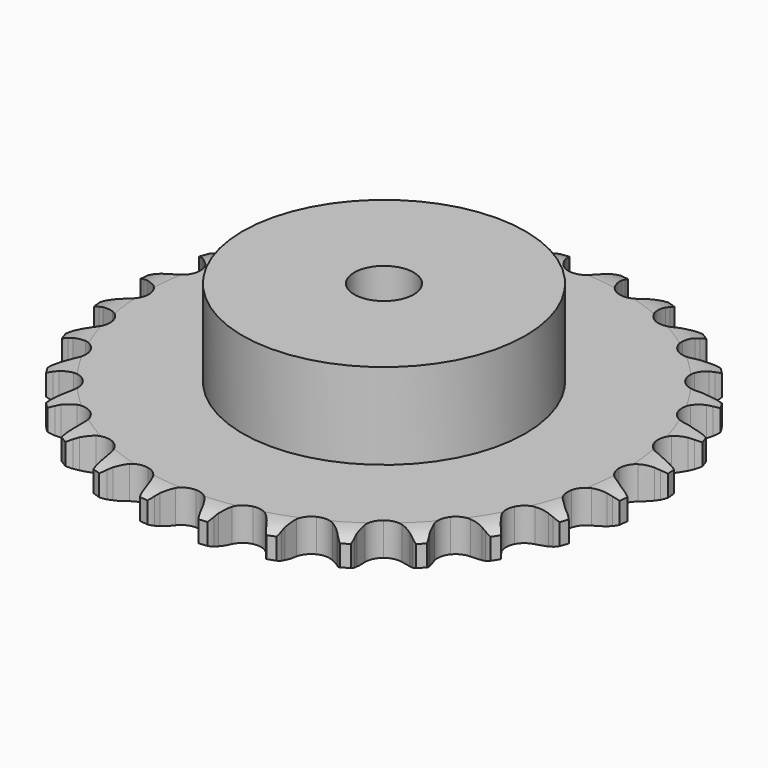
from build123d import *

# Parameters (mm, degrees)
PAD_DEPTH         = 11.1
SKETCH001_R       = 47.5
PAD001_DEPTH      = 40
SKETCH002_R       = 10
POCKET_DEPTH      = 0.001
POCKET_DEPTH_BACK = 40.001


with BuildPart() as part:
    # Sprocket → Pad (new body)
    with BuildSketch(Plane.XY):
        with BuildLine():
            ThreePointArc((-10.199193, 90.520346), (-8.671084, 88.783435), (-7.589433, 86.738439))
            Line((-7.589433, 86.738439), (-7.001312, 85.217676))
            ThreePointArc((-7.001312, 85.217676), (-6.067169, 83.22737), (-4.865119, 81.386441))
            ThreePointArc((-4.865119, 81.386441), (-2.716457, 79.606204), (0, 78.968351))
            ThreePointArc((0, 78.968351), (2.716457, 79.606204), (4.865119, 81.386441))
            ThreePointArc((4.865119, 81.386441), (6.067169, 83.22737), (7.001312, 85.217676))
            Line((7.001312, 85.217676), (7.589433, 86.738439))
            ThreePointArc((7.589433, 86.738439), (8.671084, 88.783435), (10.199193, 90.520346))
            ThreePointArc((10.199193, 90.520346), (11.302491, 88.486946), (11.901969, 86.252533))
            Line((11.901969, 86.252533), (12.136942, 84.63903))
            ThreePointArc((12.136942, 84.63903), (12.60478, 82.490758), (13.367047, 80.428504))
            ThreePointArc((13.367047, 80.428504), (15.065698, 78.214779), (17.572111, 76.988449))
            ThreePointArc((17.572111, 76.988449), (20.362396, 77.005842), (22.853327, 78.263323))
            Line((22.853327, 78.263323), (25.788492, 81.523153))
            ThreePointArc((25.788492, 81.523153), (26.226886, 82.210835), (26.700268, 82.874917))
            ThreePointArc((26.700268, 82.874917), (28.209855, 84.627951), (30.08615, 85.981278))
            ThreePointArc((30.08615, 85.981278), (30.709312, 83.753353), (30.796556, 81.441564))
            Line((30.796556, 81.441564), (30.6666, 79.816229))
            ThreePointArc((30.6666, 79.816229), (30.644673, 77.617715), (30.928933, 75.437546))
            ThreePointArc((30.928933, 75.437546), (32.092395, 72.901338), (34.263083, 71.148026))
            ThreePointArc((34.263083, 71.148026), (36.98728, 70.544086), (39.695574, 71.215754))
            Line((39.695574, 71.215754), (43.282528, 73.740718))
            ThreePointArc((43.282528, 73.740718), (43.862955, 74.313607), (44.472241, 74.855701))
            ThreePointArc((44.472241, 74.855701), (46.334065, 76.228868), (48.464462, 77.130749))
            ThreePointArc((48.464462, 77.130749), (48.57624, 74.820017), (48.146875, 72.546776))
            Line((48.146875, 72.546776), (47.658506, 70.991109))
            ThreePointArc((47.658506, 70.991109), (47.147913, 68.852596), (46.939913, 66.663834))
            ThreePointArc((46.939913, 66.663834), (47.509845, 63.93232), (49.235961, 61.739943))
            ThreePointArc((49.235961, 61.739943), (51.757468, 60.544954), (54.547319, 60.59713))
            Line((54.547319, 60.59713), (58.606198, 62.260616))
            ThreePointArc((58.606198, 62.260616), (59.299552, 62.689984), (60.014189, 63.082908))
            ThreePointArc((60.014189, 63.082908), (62.134893, 64.007352), (64.412563, 64.412563))
            ThreePointArc((64.412563, 64.412563), (64.007352, 62.134893), (63.082908, 60.014189))
            Line((63.082908, 60.014189), (62.260616, 58.606198))
            ThreePointArc((62.260616, 58.606198), (61.286961, 56.63492), (60.59713, 54.547319))
            ThreePointArc((60.59713, 54.547319), (60.544954, 51.757468), (61.739943, 49.235961))
            ThreePointArc((61.739943, 49.235961), (63.93232, 47.509845), (66.663834, 46.939913))
            Line((66.663834, 46.939913), (70.991109, 47.658506))
            ThreePointArc((70.991109, 47.658506), (71.762622, 47.922823), (72.546776, 48.146875))
            ThreePointArc((72.546776, 48.146875), (74.820017, 48.57624), (77.130749, 48.464462))
            ThreePointArc((77.130749, 48.464462), (76.228868, 46.334065), (74.855701, 44.472241))
            Line((74.855701, 44.472241), (73.740718, 43.282528))
            ThreePointArc((73.740718, 43.282528), (72.352824, 41.577333), (71.215754, 39.695574))
            ThreePointArc((71.215754, 39.695574), (70.544086, 36.98728), (71.148026, 34.263083))
            ThreePointArc((71.148026, 34.263083), (72.901338, 32.092395), (75.437546, 30.928933))
            Line((75.437546, 30.928933), (79.816229, 30.6666))
            ThreePointArc((79.816229, 30.6666), (80.627215, 30.752612), (81.441564, 30.796556))
            ThreePointArc((81.441564, 30.796556), (83.753353, 30.709312), (85.981278, 30.08615))
            ThreePointArc((85.981278, 30.08615), (84.627951, 28.209855), (82.874917, 26.700268))
            Line((82.874917, 26.700268), (81.523153, 25.788492))
            ThreePointArc((81.523153, 25.788492), (79.790614, 24.434884), (78.263323, 22.853327))
            ThreePointArc((78.263323, 22.853327), (77.005842, 20.362396), (76.988449, 17.572111))
            ThreePointArc((76.988449, 17.572111), (78.214779, 15.065698), (80.428504, 13.367047))
            Line((80.428504, 13.367047), (84.63903, 12.136942))
            ThreePointArc((84.63903, 12.136942), (85.448822, 12.040337), (86.252533, 11.901969))
            ThreePointArc((86.252533, 11.901969), (88.486946, 11.302491), (90.520346, 10.199193))
            ThreePointArc((90.520346, 10.199193), (88.783435, 8.671084), (86.738439, 7.589433))
            Line((86.738439, 7.589433), (85.217676, 7.001312))
            ThreePointArc((85.217676, 7.001312), (83.22737, 6.067169), (81.386441, 4.865119))
            ThreePointArc((81.386441, 4.865119), (79.606204, 2.716457), (78.968351, 0))
            ThreePointArc((78.968351, 0), (79.606204, -2.716457), (81.386441, -4.865119))
            Line((81.386441, -4.865119), (85.217676, -7.001312))
            ThreePointArc((85.217676, -7.001312), (85.985669, -7.275691), (86.738439, -7.589433))
            ThreePointArc((86.738439, -7.589433), (88.783435, -8.671084), (90.520346, -10.199193))
            ThreePointArc((90.520346, -10.199193), (88.486946, -11.302491), (86.252533, -11.901969))
            Line((86.252533, -11.901969), (84.63903, -12.136942))
            ThreePointArc((84.63903, -12.136942), (82.490758, -12.60478), (80.428504, -13.367047))
            ThreePointArc((80.428504, -13.367047), (78.214779, -15.065698), (76.988449, -17.572111))
            ThreePointArc((76.988449, -17.572111), (77.005842, -20.362396), (78.263323, -22.853327))
            Line((78.263323, -22.853327), (81.523153, -25.788492))
            ThreePointArc((81.523153, -25.788492), (82.210835, -26.226886), (82.874917, -26.700268))
            ThreePointArc((82.874917, -26.700268), (84.627951, -28.209855), (85.981278, -30.08615))
            ThreePointArc((85.981278, -30.08615), (83.753353, -30.709312), (81.441564, -30.796556))
            Line((81.441564, -30.796556), (79.816229, -30.6666))
            ThreePointArc((79.816229, -30.6666), (77.617715, -30.644673), (75.437546, -30.928933))
            ThreePointArc((75.437546, -30.928933), (72.901338, -32.092395), (71.148026, -34.263083))
            ThreePointArc((71.148026, -34.263083), (70.544086, -36.98728), (71.215754, -39.695574))
            Line((71.215754, -39.695574), (73.740718, -43.282528))
            ThreePointArc((73.740718, -43.282528), (74.313607, -43.862955), (74.855701, -44.472241))
            ThreePointArc((74.855701, -44.472241), (76.228868, -46.334065), (77.130749, -48.464462))
            ThreePointArc((77.130749, -48.464462), (74.820017, -48.57624), (72.546776, -48.146875))
            Line((72.546776, -48.146875), (70.991109, -47.658506))
            ThreePointArc((70.991109, -47.658506), (68.852596, -47.147913), (66.663834, -46.939913))
            ThreePointArc((66.663834, -46.939913), (63.93232, -47.509845), (61.739943, -49.235961))
            ThreePointArc((61.739943, -49.235961), (60.544954, -51.757468), (60.59713, -54.547319))
            Line((60.59713, -54.547319), (62.260616, -58.606198))
            ThreePointArc((62.260616, -58.606198), (62.689984, -59.299552), (63.082908, -60.014189))
            ThreePointArc((63.082908, -60.014189), (64.007352, -62.134893), (64.412563, -64.412563))
            ThreePointArc((64.412563, -64.412563), (62.134893, -64.007352), (60.014189, -63.082908))
            Line((60.014189, -63.082908), (58.606198, -62.260616))
            ThreePointArc((58.606198, -62.260616), (56.63492, -61.286961), (54.547319, -60.59713))
            ThreePointArc((54.547319, -60.59713), (51.757468, -60.544954), (49.235961, -61.739943))
            ThreePointArc((49.235961, -61.739943), (47.509845, -63.93232), (46.939913, -66.663834))
            Line((46.939913, -66.663834), (47.658506, -70.991109))
            ThreePointArc((47.658506, -70.991109), (47.922823, -71.762622), (48.146875, -72.546776))
            ThreePointArc((48.146875, -72.546776), (48.57624, -74.820017), (48.464462, -77.130749))
            ThreePointArc((48.464462, -77.130749), (46.334065, -76.228868), (44.472241, -74.855701))
            Line((44.472241, -74.855701), (43.282528, -73.740718))
            ThreePointArc((43.282528, -73.740718), (41.577333, -72.352824), (39.695574, -71.215754))
            ThreePointArc((39.695574, -71.215754), (36.98728, -70.544086), (34.263083, -71.148026))
            ThreePointArc((34.263083, -71.148026), (32.092395, -72.901338), (30.928933, -75.437546))
            Line((30.928933, -75.437546), (30.6666, -79.816229))
            ThreePointArc((30.6666, -79.816229), (30.752612, -80.627215), (30.796556, -81.441564))
            ThreePointArc((30.796556, -81.441564), (30.709312, -83.753353), (30.08615, -85.981278))
            ThreePointArc((30.08615, -85.981278), (28.209855, -84.627951), (26.700268, -82.874917))
            Line((26.700268, -82.874917), (25.788492, -81.523153))
            ThreePointArc((25.788492, -81.523153), (24.434884, -79.790614), (22.853327, -78.263323))
            ThreePointArc((22.853327, -78.263323), (20.362396, -77.005842), (17.572111, -76.988449))
            ThreePointArc((17.572111, -76.988449), (15.065698, -78.214779), (13.367047, -80.428504))
            Line((13.367047, -80.428504), (12.136942, -84.63903))
            ThreePointArc((12.136942, -84.63903), (12.040337, -85.448822), (11.901969, -86.252533))
            ThreePointArc((11.901969, -86.252533), (11.302491, -88.486946), (10.199193, -90.520346))
            ThreePointArc((10.199193, -90.520346), (8.671084, -88.783435), (7.589433, -86.738439))
            Line((7.589433, -86.738439), (7.001312, -85.217676))
            ThreePointArc((7.001312, -85.217676), (6.067169, -83.22737), (4.865119, -81.386441))
            ThreePointArc((4.865119, -81.386441), (2.716457, -79.606204), (0, -78.968351))
            ThreePointArc((0, -78.968351), (-2.716457, -79.606204), (-4.865119, -81.386441))
            Line((-4.865119, -81.386441), (-7.001312, -85.217676))
            ThreePointArc((-7.001312, -85.217676), (-7.275691, -85.985669), (-7.589433, -86.738439))
            ThreePointArc((-7.589433, -86.738439), (-8.671084, -88.783435), (-10.199193, -90.520346))
            ThreePointArc((-10.199193, -90.520346), (-11.302491, -88.486946), (-11.901969, -86.252533))
            Line((-11.901969, -86.252533), (-12.136942, -84.63903))
            ThreePointArc((-12.136942, -84.63903), (-12.60478, -82.490758), (-13.367047, -80.428504))
            ThreePointArc((-13.367047, -80.428504), (-15.065698, -78.214779), (-17.572111, -76.988449))
            ThreePointArc((-17.572111, -76.988449), (-20.362396, -77.005842), (-22.853327, -78.263323))
            Line((-22.853327, -78.263323), (-25.788492, -81.523153))
            ThreePointArc((-25.788492, -81.523153), (-26.226886, -82.210835), (-26.700268, -82.874917))
            ThreePointArc((-26.700268, -82.874917), (-28.209855, -84.627951), (-30.08615, -85.981278))
            ThreePointArc((-30.08615, -85.981278), (-30.709312, -83.753353), (-30.796556, -81.441564))
            Line((-30.796556, -81.441564), (-30.6666, -79.816229))
            ThreePointArc((-30.6666, -79.816229), (-30.644673, -77.617715), (-30.928933, -75.437546))
            ThreePointArc((-30.928933, -75.437546), (-32.092395, -72.901338), (-34.263083, -71.148026))
            ThreePointArc((-34.263083, -71.148026), (-36.98728, -70.544086), (-39.695574, -71.215754))
            Line((-39.695574, -71.215754), (-43.282528, -73.740718))
            ThreePointArc((-43.282528, -73.740718), (-43.862955, -74.313607), (-44.472241, -74.855701))
            ThreePointArc((-44.472241, -74.855701), (-46.334065, -76.228868), (-48.464462, -77.130749))
            ThreePointArc((-48.464462, -77.130749), (-48.57624, -74.820017), (-48.146875, -72.546776))
            Line((-48.146875, -72.546776), (-47.658506, -70.991109))
            ThreePointArc((-47.658506, -70.991109), (-47.147913, -68.852596), (-46.939913, -66.663834))
            ThreePointArc((-46.939913, -66.663834), (-47.509845, -63.93232), (-49.235961, -61.739943))
            ThreePointArc((-49.235961, -61.739943), (-51.757468, -60.544954), (-54.547319, -60.59713))
            Line((-54.547319, -60.59713), (-58.606198, -62.260616))
            ThreePointArc((-58.606198, -62.260616), (-59.299552, -62.689984), (-60.014189, -63.082908))
            ThreePointArc((-60.014189, -63.082908), (-62.134893, -64.007352), (-64.412563, -64.412563))
            ThreePointArc((-64.412563, -64.412563), (-64.007352, -62.134893), (-63.082908, -60.014189))
            Line((-63.082908, -60.014189), (-62.260616, -58.606198))
            ThreePointArc((-62.260616, -58.606198), (-61.286961, -56.63492), (-60.59713, -54.547319))
            ThreePointArc((-60.59713, -54.547319), (-60.544954, -51.757468), (-61.739943, -49.235961))
            ThreePointArc((-61.739943, -49.235961), (-63.93232, -47.509845), (-66.663834, -46.939913))
            Line((-66.663834, -46.939913), (-70.991109, -47.658506))
            ThreePointArc((-70.991109, -47.658506), (-71.762622, -47.922823), (-72.546776, -48.146875))
            ThreePointArc((-72.546776, -48.146875), (-74.820017, -48.57624), (-77.130749, -48.464462))
            ThreePointArc((-77.130749, -48.464462), (-76.228868, -46.334065), (-74.855701, -44.472241))
            Line((-74.855701, -44.472241), (-73.740718, -43.282528))
            ThreePointArc((-73.740718, -43.282528), (-72.352824, -41.577333), (-71.215754, -39.695574))
            ThreePointArc((-71.215754, -39.695574), (-70.544086, -36.98728), (-71.148026, -34.263083))
            ThreePointArc((-71.148026, -34.263083), (-72.901338, -32.092395), (-75.437546, -30.928933))
            Line((-75.437546, -30.928933), (-79.816229, -30.6666))
            ThreePointArc((-79.816229, -30.6666), (-80.627215, -30.752612), (-81.441564, -30.796556))
            ThreePointArc((-81.441564, -30.796556), (-83.753353, -30.709312), (-85.981278, -30.08615))
            ThreePointArc((-85.981278, -30.08615), (-84.627951, -28.209855), (-82.874917, -26.700268))
            Line((-82.874917, -26.700268), (-81.523153, -25.788492))
            ThreePointArc((-81.523153, -25.788492), (-79.790614, -24.434884), (-78.263323, -22.853327))
            ThreePointArc((-78.263323, -22.853327), (-77.005842, -20.362396), (-76.988449, -17.572111))
            ThreePointArc((-76.988449, -17.572111), (-78.214779, -15.065698), (-80.428504, -13.367047))
            Line((-80.428504, -13.367047), (-84.63903, -12.136942))
            ThreePointArc((-84.63903, -12.136942), (-85.448822, -12.040337), (-86.252533, -11.901969))
            ThreePointArc((-86.252533, -11.901969), (-88.486946, -11.302491), (-90.520346, -10.199193))
            ThreePointArc((-90.520346, -10.199193), (-88.783435, -8.671084), (-86.738439, -7.589433))
            Line((-86.738439, -7.589433), (-85.217676, -7.001312))
            ThreePointArc((-85.217676, -7.001312), (-83.22737, -6.067169), (-81.386441, -4.865119))
            ThreePointArc((-81.386441, -4.865119), (-79.606204, -2.716457), (-78.968351, 0))
            ThreePointArc((-78.968351, 0), (-79.606204, 2.716457), (-81.386441, 4.865119))
            Line((-81.386441, 4.865119), (-85.217676, 7.001312))
            ThreePointArc((-85.217676, 7.001312), (-85.985669, 7.275691), (-86.738439, 7.589433))
            ThreePointArc((-86.738439, 7.589433), (-88.783435, 8.671084), (-90.520346, 10.199193))
            ThreePointArc((-90.520346, 10.199193), (-88.486946, 11.302491), (-86.252533, 11.901969))
            Line((-86.252533, 11.901969), (-84.63903, 12.136942))
            ThreePointArc((-84.63903, 12.136942), (-82.490758, 12.60478), (-80.428504, 13.367047))
            ThreePointArc((-80.428504, 13.367047), (-78.214779, 15.065698), (-76.988449, 17.572111))
            ThreePointArc((-76.988449, 17.572111), (-77.005842, 20.362396), (-78.263323, 22.853327))
            Line((-78.263323, 22.853327), (-81.523153, 25.788492))
            ThreePointArc((-81.523153, 25.788492), (-82.210835, 26.226886), (-82.874917, 26.700268))
            ThreePointArc((-82.874917, 26.700268), (-84.627951, 28.209855), (-85.981278, 30.08615))
            ThreePointArc((-85.981278, 30.08615), (-83.753353, 30.709312), (-81.441564, 30.796556))
            Line((-81.441564, 30.796556), (-79.816229, 30.6666))
            ThreePointArc((-79.816229, 30.6666), (-77.617715, 30.644673), (-75.437546, 30.928933))
            ThreePointArc((-75.437546, 30.928933), (-72.901338, 32.092395), (-71.148026, 34.263083))
            ThreePointArc((-71.148026, 34.263083), (-70.544086, 36.98728), (-71.215754, 39.695574))
            Line((-71.215754, 39.695574), (-73.740718, 43.282528))
            ThreePointArc((-73.740718, 43.282528), (-74.313607, 43.862955), (-74.855701, 44.472241))
            ThreePointArc((-74.855701, 44.472241), (-76.228868, 46.334065), (-77.130749, 48.464462))
            ThreePointArc((-77.130749, 48.464462), (-74.820017, 48.57624), (-72.546776, 48.146875))
            Line((-72.546776, 48.146875), (-70.991109, 47.658506))
            ThreePointArc((-70.991109, 47.658506), (-68.852596, 47.147913), (-66.663834, 46.939913))
            ThreePointArc((-66.663834, 46.939913), (-63.93232, 47.509845), (-61.739943, 49.235961))
            ThreePointArc((-61.739943, 49.235961), (-60.544954, 51.757468), (-60.59713, 54.547319))
            Line((-60.59713, 54.547319), (-62.260616, 58.606198))
            ThreePointArc((-62.260616, 58.606198), (-62.689984, 59.299552), (-63.082908, 60.014189))
            ThreePointArc((-63.082908, 60.014189), (-64.007352, 62.134893), (-64.412563, 64.412563))
            ThreePointArc((-64.412563, 64.412563), (-62.134893, 64.007352), (-60.014189, 63.082908))
            Line((-60.014189, 63.082908), (-58.606198, 62.260616))
            ThreePointArc((-58.606198, 62.260616), (-56.63492, 61.286961), (-54.547319, 60.59713))
            ThreePointArc((-54.547319, 60.59713), (-51.757468, 60.544954), (-49.235961, 61.739943))
            ThreePointArc((-49.235961, 61.739943), (-47.509845, 63.93232), (-46.939913, 66.663834))
            Line((-46.939913, 66.663834), (-47.658506, 70.991109))
            ThreePointArc((-47.658506, 70.991109), (-47.922823, 71.762622), (-48.146875, 72.546776))
            ThreePointArc((-48.146875, 72.546776), (-48.57624, 74.820017), (-48.464462, 77.130749))
            ThreePointArc((-48.464462, 77.130749), (-46.334065, 76.228868), (-44.472241, 74.855701))
            Line((-44.472241, 74.855701), (-43.282528, 73.740718))
            ThreePointArc((-43.282528, 73.740718), (-41.577333, 72.352824), (-39.695574, 71.215754))
            ThreePointArc((-39.695574, 71.215754), (-36.98728, 70.544086), (-34.263083, 71.148026))
            ThreePointArc((-34.263083, 71.148026), (-32.092395, 72.901338), (-30.928933, 75.437546))
            Line((-30.928933, 75.437546), (-30.6666, 79.816229))
            ThreePointArc((-30.6666, 79.816229), (-30.752612, 80.627215), (-30.796556, 81.441564))
            ThreePointArc((-30.796556, 81.441564), (-30.709312, 83.753353), (-30.08615, 85.981278))
            ThreePointArc((-30.08615, 85.981278), (-28.209855, 84.627951), (-26.700268, 82.874917))
            Line((-26.700268, 82.874917), (-25.788492, 81.523153))
            ThreePointArc((-25.788492, 81.523153), (-24.434884, 79.790614), (-22.853327, 78.263323))
            ThreePointArc((-22.853327, 78.263323), (-20.362396, 77.005842), (-17.572111, 76.988449))
            ThreePointArc((-17.572111, 76.988449), (-15.065698, 78.214779), (-13.367047, 80.428504))
            Line((-13.367047, 80.428504), (-12.136942, 84.63903))
            ThreePointArc((-12.136942, 84.63903), (-12.040337, 85.448822), (-11.901969, 86.252533))
            ThreePointArc((-11.901969, 86.252533), (-11.302491, 88.486946), (-10.199193, 90.520346))
        make_face()
    extrude(amount=PAD_DEPTH)

    # Sketch → Groove (revolve, cut)
    with BuildSketch(Plane.XZ):
        with BuildLine():
            Line((80.514719, 0), (89, 0))
            Line((97.485281, 0), (89, 0))
            Line((97.485281, 11.1), (97.485281, 0))
            Line((89, 11.1), (97.485281, 11.1))
            Line((80.514719, 11.1), (89, 11.1))
            ThreePointArc((89, 9.1), (84.873618, 10.593242), (80.514719, 11.1))
            Line((89, 2), (89, 9.1))
            ThreePointArc((80.514719, 0), (84.873618, 0.506758), (89, 2))
        make_face()
    revolve(axis=Axis((0, 0, 0), (0, 0, 1)), mode=Mode.SUBTRACT)

    # Sketch001 → Pad001 (join)
    with BuildSketch(Plane.XY):
        Circle(SKETCH001_R)
    extrude(amount=PAD001_DEPTH)

    # Sketch002 → Pocket (cut, two sides)
    with BuildSketch(Plane.XY) as pocket_sk:
        Circle(SKETCH002_R)
    extrude(amount=-POCKET_DEPTH, mode=Mode.SUBTRACT)
    extrude(pocket_sk.sketch, amount=POCKET_DEPTH_BACK, mode=Mode.SUBTRACT)


solid = part.part
